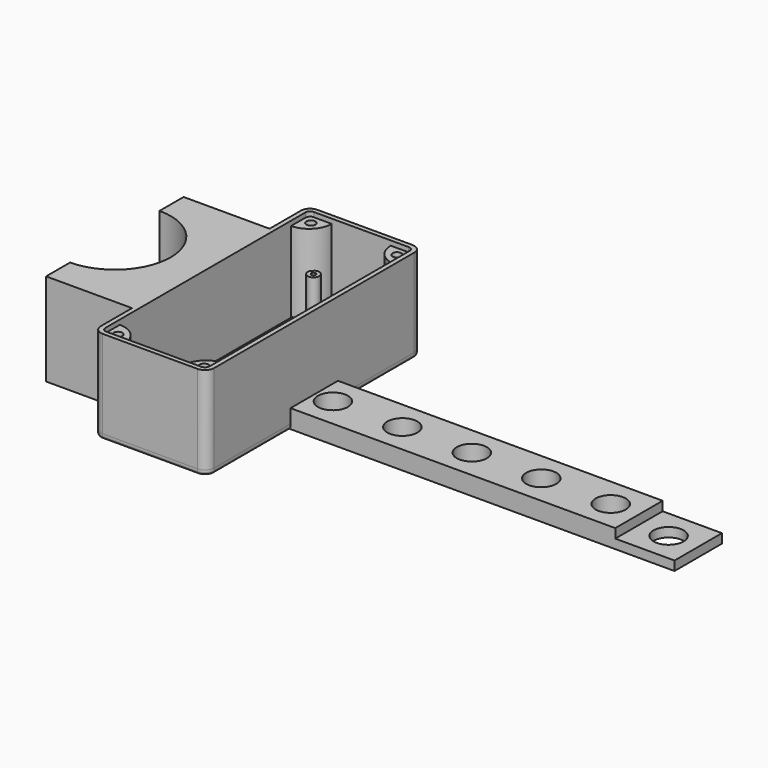
from build123d import *

# Parameters (mm, degrees)
PAD_DEPTH                     = 40
POCKET_DEPTH                  = 38
SKETCH002_R                   = 1.95
PAD001_DEPTH                  = 36
SKETCH002_MIRRORED_2_R        = 1.95
PAD001_MIRRORED_2_DEPTH       = 36
FILLET_R                      = 1
SKETCH008_R                   = 2.5
SKETCH008_R_2                 = 0.95
PAD005_DEPTH                  = 20
SKETCH009_W                   = 74.26
SKETCH009_H                   = 40
PAD006_DEPTH                  = 39.13
SKETCH011_R                   = 24.13
POCKET003_DEPTH               = 40.001
SKETCH012_R                   = 33.25
SKETCH012_R_2                 = 30.25
POCKET004_DEPTH               = 20
SKETCH013_W                   = 25.6
SKETCH013_H                   = 8
PAD007_DEPTH                  = 167.87
SKETCH014_R                   = 6.5
POCKET005_DEPTH               = 40.001
SKETCH015_W                   = 25.6
SKETCH015_H                   = 25.6
POCKET006_DEPTH               = 4
PAD002_DEPTH                  = 2
PAD003_DEPTH                  = 1.5
POCKET001_DEPTH               = 1.5
SKETCH006_R                   = 1.5
PAD004_DEPTH                  = 1.5
SKETCH006_MIRRORED002_2_R     = 1.5
PAD004_MIRRORED002_2_DEPTH    = 1.5
SKETCH007_R                   = 1.5
POCKET002_DEPTH               = 2
SKETCH007_MIRRORED004_2_R     = 1.5
POCKET002_MIRRORED004_2_DEPTH = 2
FILLET001_R                   = 1
CHAMFER_SIZE                  = 1.98
SKETCH016_R                   = 2.5
SKETCH016_R_2                 = 1.29
SKETCH016_R_3                 = 3
POCKET007_DEPTH               = 5


with BuildPart() as main_box:
    # Sketch → Pad (new body)
    with BuildSketch(Plane.XY):
        with BuildLine():
            Line((-20.5, 58), (20.5, 58))
            ThreePointArc((24.5, 54), (23.328427, 56.828427), (20.5, 58))
            Line((24.5, 54), (24.5, -54))
            ThreePointArc((20.5, -58), (23.328427, -56.828427), (24.5, -54))
            Line((20.5, -58), (-20.5, -58))
            ThreePointArc((-24.5, -54), (-23.328427, -56.828427), (-20.5, -58))
            Line((-24.5, -54), (-24.5, 54))
            ThreePointArc((-20.5, 58), (-23.328427, 56.828427), (-24.5, 54))
        make_face()
    extrude(amount=PAD_DEPTH)

    # Sketch001 (on Face10 of Pad) → Pocket (cut)
    with BuildSketch(Plane.XY.offset(40)):
        with BuildLine():
            Line((-20.5, 56), (20.5, 56))
            ThreePointArc((22.5, 54), (21.914214, 55.414214), (20.5, 56))
            Line((22.5, 54), (22.5, -54))
            ThreePointArc((20.5, -56), (21.914214, -55.414214), (22.5, -54))
            Line((20.5, -56), (-20.5, -56))
            ThreePointArc((-22.5, -54), (-21.914214, -55.414214), (-20.5, -56))
            Line((-22.5, -54), (-22.5, 54))
            ThreePointArc((-20.5, 56), (-21.914214, 55.414214), (-22.5, 54))
        make_face()
    extrude(amount=-POCKET_DEPTH, mode=Mode.SUBTRACT)

    # Sketch002 (on Face19 of Pocket) → Pad001 (join)
    with BuildSketch(Plane.XY.offset(2)):
        with BuildLine():
            Line((-22.5, 46.25), (-22.5, 56))
            Line((-22.5, 56), (-12.75, 56))
            ThreePointArc((-22.5, 46.25), (-15.605709, 49.105709), (-12.75, 56))
        make_face()
        with Locations((-18.6, 52.1)):
            Circle(SKETCH002_R, mode=Mode.SUBTRACT)
    pad001 = extrude(amount=PAD001_DEPTH)

    # Sketch002 Mirrored 2 → Pad001 Mirrored 2 (add)
    with BuildSketch(Plane(origin=(0, 0, 2), x_dir=(-1, 0, 0), z_dir=(0, 0, -1))):
        with BuildLine():
            Line((-22.5, 46.25), (-22.5, 56))
            Line((-22.5, 56), (-12.75, 56))
            ThreePointArc((-22.5, 46.25), (-15.605709, 49.105709), (-12.75, 56))
        make_face()
        with Locations((-18.6, 52.1)):
            Circle(SKETCH002_MIRRORED_2_R, mode=Mode.SUBTRACT)
    pad001_mirrored_2 = extrude(amount=-PAD001_MIRRORED_2_DEPTH)

    # Mirrored001: Pad001, Pad001 Mirrored 2 across Sketch002 H_Axis
    add(pad001.mirror(Plane(origin=(0, 0, 2), x_dir=(0, 0, 1), z_dir=(0, 1, 0))))
    add(pad001_mirrored_2.mirror(Plane(origin=(0, 0, 2), x_dir=(0, 0, 1), z_dir=(0, 1, 0))))

    # Fillet
    fillet_edges = [main_box.edges().sort_by_distance(p)[0] for p in [
        (-24.5, 0, 0),
        (-23.328427, 56.828427, 0),
        (0, 58, 0),
        (23.328427, 56.828427, 0),
        (24.5, 0, 0),
        (23.328427, -56.828427, 0),
        (0, -58, 0),
        (-23.328427, -56.828427, 0),
    ]]
    fillet(fillet_edges, radius=FILLET_R)

    # Sketch008 (on Face29 of Fillet) → Pad005 (join)
    with BuildSketch(Plane.XY.offset(2)):
        with Locations((-13.855, 47.55)):
            Circle(SKETCH008_R)
        with Locations((-13.855, 47.55)):
            Circle(SKETCH008_R_2, mode=Mode.SUBTRACT)
        with Locations((13.855, 47.55)):
            Circle(SKETCH008_R)
        with Locations((13.855, 47.55)):
            Circle(SKETCH008_R_2, mode=Mode.SUBTRACT)
        with Locations((-13.855, -47.55)):
            Circle(SKETCH008_R)
        with Locations((-13.855, -47.55)):
            Circle(SKETCH008_R_2, mode=Mode.SUBTRACT)
        with Locations((13.855, -47.55)):
            Circle(SKETCH008_R)
        with Locations((13.855, -47.55)):
            Circle(SKETCH008_R_2, mode=Mode.SUBTRACT)
    extrude(amount=PAD005_DEPTH)

    # Sketch009 (on Face21 of Pad005) → Pad006 (join)
    with BuildSketch(Plane.YZ.offset(-22.5)):
        with Locations((0, 20)):
            Rectangle(SKETCH009_W, SKETCH009_H)
    extrude(amount=-PAD006_DEPTH)

    # Sketch011 (on Face10 of Pad006) → Pocket003 (cut, through all)
    with BuildSketch(Plane.XY.offset(40)):
        with Locations((-61.63, 0)):
            Circle(SKETCH011_R)
    extrude(amount=-POCKET003_DEPTH, mode=Mode.SUBTRACT)

    # Sketch012 (on Face10 of Pocket003) → Pocket004 (cut)
    with BuildSketch(Plane.XY.offset(30)):
        with Locations((-61.63, 0)):
            Circle(SKETCH012_R)
        with Locations((-61.63, 0)):
            Circle(SKETCH012_R_2, mode=Mode.SUBTRACT)
    extrude(amount=-POCKET004_DEPTH, mode=Mode.SUBTRACT)

    # Sketch013 (on Face16 of Pocket004) → Pad007 (join)
    with BuildSketch(Plane(origin=(22.5, 0, 0), x_dir=(0, -1, 0), z_dir=(-1, 0, 0))):
        with Locations((0, 4)):
            Rectangle(SKETCH013_W, SKETCH013_H)
    extrude(amount=-PAD007_DEPTH)

    # Sketch014 (on Face60 of Pad007) → Pocket005 (cut, through all)
    with BuildSketch(Plane(origin=(0, 0, 0), x_dir=(1, 0, 0), z_dir=(0, 0, -1))):
        with Locations((177.572, 0)):
            Circle(SKETCH014_R)
        with Locations((152.572, 0)):
            Circle(SKETCH014_R)
        with Locations((122.572, 0)):
            Circle(SKETCH014_R)
        with Locations((92.572, 0)):
            Circle(SKETCH014_R)
        with Locations((62.572, 0)):
            Circle(SKETCH014_R)
        with Locations((32.572, 0)):
            Circle(SKETCH014_R)
    extrude(amount=-POCKET005_DEPTH, mode=Mode.SUBTRACT)

    # Sketch015 (on Face58 of Pocket005) → Pocket006 (cut)
    with BuildSketch(Plane.XY.offset(8)):
        with Locations((177.572293, 0)):
            Rectangle(SKETCH015_W, SKETCH015_H)
    extrude(amount=-POCKET006_DEPTH, mode=Mode.SUBTRACT)


with BuildPart() as main_lid:
    # Sketch003 → Pad002 (new body)
    with BuildSketch(Plane.XY):
        with BuildLine():
            Line((-20.5, 58), (20.5, 58))
            ThreePointArc((24.5, 54), (23.328427, 56.828427), (20.5, 58))
            Line((24.5, 54), (24.5, -54))
            ThreePointArc((20.5, -58), (23.328427, -56.828427), (24.5, -54))
            Line((20.5, -58), (-20.5, -58))
            ThreePointArc((-24.5, -54), (-23.328427, -56.828427), (-20.5, -58))
            Line((-24.5, -54), (-24.5, 54))
            ThreePointArc((-20.5, 58), (-23.328427, 56.828427), (-24.5, 54))
        make_face()
    extrude(amount=PAD002_DEPTH)

    # Sketch004 (on Face10 of Pad002) → Pad003 (join)
    with BuildSketch(Plane.XY.offset(2)):
        with BuildLine():
            Line((-20.1, 55.6), (20.1, 55.6))
            ThreePointArc((22.1, 53.6), (21.514214, 55.014214), (20.1, 55.6))
            Line((22.1, 53.6), (22.1, -53.6))
            ThreePointArc((20.1, -55.6), (21.514214, -55.014214), (22.1, -53.6))
            Line((20.1, -55.6), (-20.1, -55.6))
            ThreePointArc((-22.1, -53.6), (-21.514214, -55.014214), (-20.1, -55.6))
            Line((-22.1, -53.6), (-22.1, 53.6))
            ThreePointArc((-20.1, 55.6), (-21.514214, 55.014214), (-22.1, 53.6))
        make_face()
    extrude(amount=PAD003_DEPTH)

    # Sketch005 (on Face19 of Pad003) → Pocket001 (cut)
    with BuildSketch(Plane.XY.offset(3.5)):
        with BuildLine():
            Line((-19.6, 54.1), (19.6, 54.1))
            ThreePointArc((20.6, 53.1), (20.307107, 53.807107), (19.6, 54.1))
            Line((20.6, 53.1), (20.6, -53.1))
            ThreePointArc((19.6, -54.1), (20.307107, -53.807107), (20.6, -53.1))
            Line((19.6, -54.1), (-19.6, -54.1))
            ThreePointArc((-20.6, -53.1), (-20.307107, -53.807107), (-19.6, -54.1))
            Line((-20.6, -53.1), (-20.6, 53.1))
            ThreePointArc((-19.6, 54.1), (-20.307107, 53.807107), (-20.6, 53.1))
        make_face()
    extrude(amount=-POCKET001_DEPTH, mode=Mode.SUBTRACT)

    # Sketch006 (on Face28 of Pocket001) → Pad004 (join)
    with BuildSketch(Plane.XY.offset(2)):
        with BuildLine():
            Line((-21, 47), (-21, 54.5))
            Line((-21, 54.5), (-13.5, 54.5))
            ThreePointArc((-21, 47), (-15.696699, 49.196699), (-13.5, 54.5))
        make_face()
        with Locations((-18.6, 52.1)):
            Circle(SKETCH006_R, mode=Mode.SUBTRACT)
    pad004 = extrude(amount=PAD004_DEPTH)

    # Sketch006 Mirrored002 2 → Pad004 Mirrored002 2 (add)
    with BuildSketch(Plane(origin=(0, 0, 2), x_dir=(-1, 0, 0), z_dir=(0, 0, -1))):
        with BuildLine():
            Line((-21, 47), (-21, 54.5))
            Line((-21, 54.5), (-13.5, 54.5))
            ThreePointArc((-21, 47), (-15.696699, 49.196699), (-13.5, 54.5))
        make_face()
        with Locations((-18.6, 52.1)):
            Circle(SKETCH006_MIRRORED002_2_R, mode=Mode.SUBTRACT)
    pad004_mirrored002_2 = extrude(amount=-PAD004_MIRRORED002_2_DEPTH)

    # Mirrored003: Pad004, Pad004 Mirrored002 2 across Sketch006 H_Axis
    add(pad004.mirror(Plane(origin=(0, 0, 2), x_dir=(0, 0, 1), z_dir=(0, 1, 0))))
    add(pad004_mirrored002_2.mirror(Plane(origin=(0, 0, 2), x_dir=(0, 0, 1), z_dir=(0, 1, 0))))

    # Sketch007 (on Face30 of MultiTransform001) → Pocket002 (cut)
    with BuildSketch(Plane.XY.offset(2)):
        with Locations((-18.6, 52.1)):
            Circle(SKETCH007_R)
    pocket002 = extrude(amount=-POCKET002_DEPTH, mode=Mode.SUBTRACT)

    # Sketch007 Mirrored004 2 → Pocket002 Mirrored004 2 (cut)
    with BuildSketch(Plane(origin=(0, 0, 2), x_dir=(-1, 0, 0), z_dir=(0, 0, -1))):
        with Locations((-18.6, 52.1)):
            Circle(SKETCH007_MIRRORED004_2_R)
    pocket002_mirrored004_2 = extrude(amount=POCKET002_MIRRORED004_2_DEPTH, mode=Mode.SUBTRACT)

    # Mirrored005: Pocket002, Pocket002 Mirrored004 2 across Sketch007 H_Axis
    add(pocket002.mirror(Plane(origin=(0, 0, 2), x_dir=(0, 0, 1), z_dir=(0, 1, 0))), mode=Mode.SUBTRACT)
    add(pocket002_mirrored004_2.mirror(Plane(origin=(0, 0, 2), x_dir=(0, 0, 1), z_dir=(0, 1, 0))), mode=Mode.SUBTRACT)

    # Fillet001
    fillet001_edges = [main_lid.edges().sort_by_distance(p)[0] for p in [
        (24.5, 0, 0),
        (23.328427, 56.828427, 0),
        (0, 58, 0),
        (-23.328427, 56.828427, 0),
        (-24.5, 0, 0),
        (-23.328427, -56.828427, 0),
        (0, -58, 0),
        (23.328427, -56.828427, 0),
    ]]
    fillet(fillet001_edges, radius=FILLET001_R)

    # Chamfer
    chamfer_edges = [main_lid.edges().sort_by_distance(p)[0] for p in [
        (20.1, 52.1, 0),
        (-20.1, 52.1, 0),
        (-20.1, -52.1, 0),
        (20.1, -52.1, 0),
    ]]
    chamfer(chamfer_edges, length=CHAMFER_SIZE)

    # Sketch016 (on Face52 of Chamfer) → Pocket007 (cut)
    with BuildSketch(Plane.XY.offset(2)):
        Circle(SKETCH016_R)
        with Locations((0, 6.15185)):
            Circle(SKETCH016_R_2)
        with Locations((6.15185, 0)):
            Circle(SKETCH016_R_2)
        with Locations((0, -6.15185)):
            Circle(SKETCH016_R_2)
        with Locations((-6.15185, 0)):
            Circle(SKETCH016_R_2)
        with Locations((0, -29)):
            Circle(SKETCH016_R_3)
    extrude(amount=-POCKET007_DEPTH, mode=Mode.SUBTRACT)


solid = Compound([main_box.part, main_lid.part])
